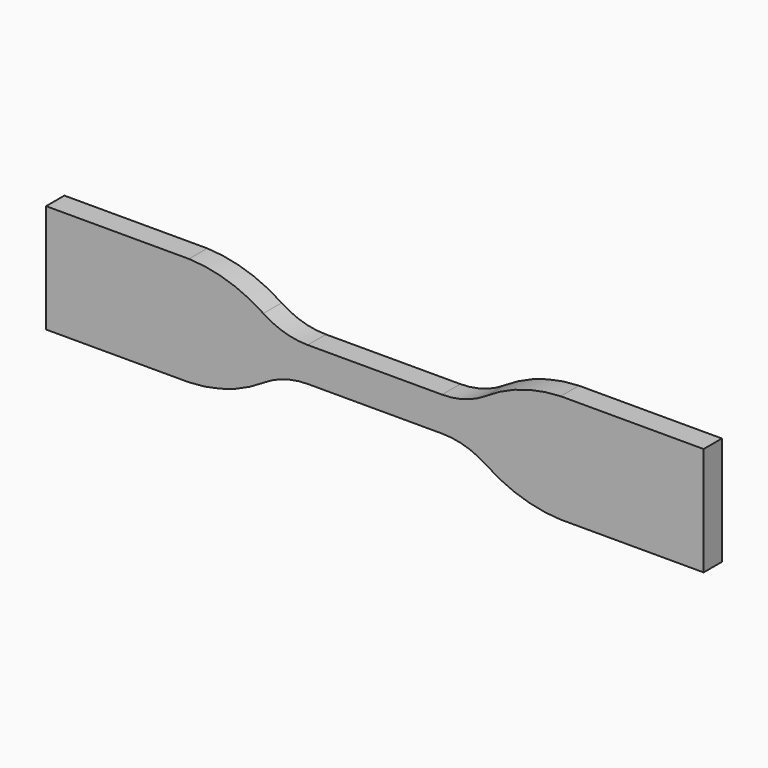
from build123d import *

# Parameters (mm, degrees)
F1_DEPTH = 2


with BuildPart() as f1:
    # F0 (on Front) → F1 (new body, symmetric)
    with BuildSketch(Plane.XZ):
        with BuildLine():
            Line((11.751494, 3), (0, 3))
            Line((0, 3), (-11.751494, 3))
            ThreePointArc((-11.751494, 3), (-15.797231, 3.597313), (-19.497744, 5.338285))
            ThreePointArc((-19.497744, 5.338285), (-25.709291, 8.323868), (-32.5, 9.5))
            Line((-32.5, 9.5), (-57.5, 9.5))
            Line((-57.5, 9.5), (-57.5, -9.5))
            Line((-57.5, -9.5), (-32.5, -9.5))
            ThreePointArc((-32.5, -9.5), (-25.709291, -8.323868), (-19.497744, -5.338285))
            ThreePointArc((-19.497744, -5.338285), (-15.797231, -3.597313), (-11.751494, -3))
            Line((-11.751494, -3), (0, -3))
            Line((0, -3), (11.751494, -3))
            ThreePointArc((11.751494, -3), (15.797231, -3.597313), (19.497744, -5.338285))
            ThreePointArc((19.497744, -5.338285), (25.709291, -8.323868), (32.5, -9.5))
            Line((32.5, -9.5), (57.5, -9.5))
            Line((57.5, -9.5), (57.5, 9.5))
            Line((57.5, 9.5), (32.5, 9.5))
            ThreePointArc((32.5, 9.5), (25.709291, 8.323868), (19.497744, 5.338285))
            ThreePointArc((19.497744, 5.338285), (15.797231, 3.597313), (11.751494, 3))
        make_face()
    extrude(amount=F1_DEPTH, both=True)


solid = f1.part
